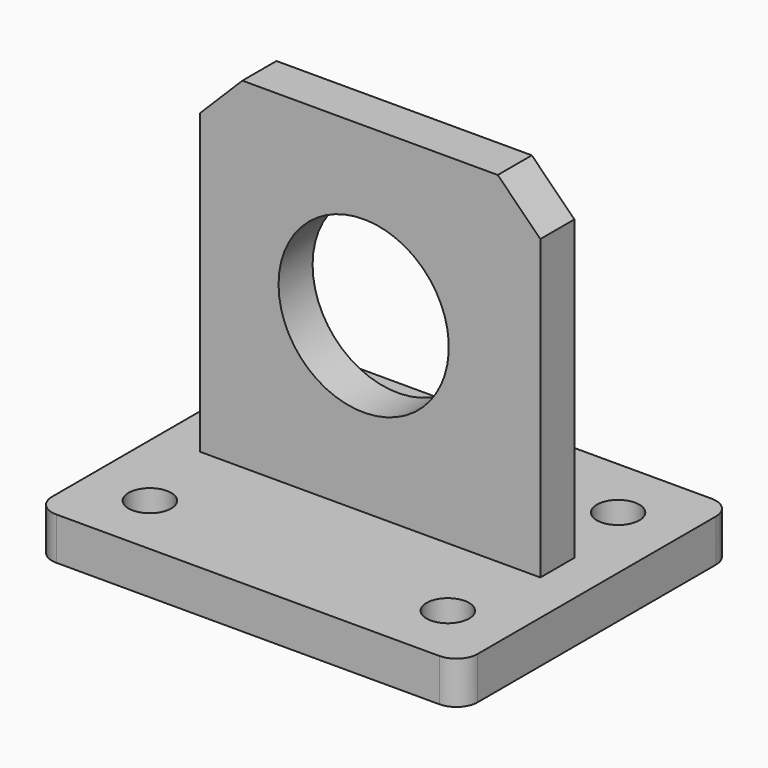
from build123d import *

# Parameters (mm, degrees)
F0_W     = 100
F0_H     = 80
F1_DEPTH = 10
F3_D     = 10
F4_R     = 5
F5_R     = 5
F6_W     = 80
F6_H     = 10
F7_DEPTH = 80
F8_SIZE  = 10
F10_D    = 40


with BuildPart() as f1:
    # F0 (on Top) → F1 (new body)
    with BuildSketch(Plane.XY):
        with Locations((13.55473, -5.91478)):
            Rectangle(F0_W, F0_H)
    extrude(amount=F1_DEPTH)

    # F3 (through all)
    with Locations(Plane.XY.offset(10)):
        with Locations((-21.44527, -30.91478), (-21.44527, 19.08522), (48.55473, 19.08522), (48.55473, -30.91478)):
            Hole(F3_D / 2)

    # F4
    f4_edges = [f1.edges().sort_by_distance(p)[0] for p in [
        (63.55473, 34.08522, 5),
    ]]
    fillet(f4_edges, radius=F4_R)

    # F5
    f5_edges = [f1.edges().sort_by_distance(p)[0] for p in [
        (63.55473, -45.91478, 5),
        (-36.44527, -45.91478, 5),
        (-36.44527, 34.08522, 5),
    ]]
    fillet(f5_edges, radius=F5_R)

    # F6 (on face) → F7 (join)
    with BuildSketch(Plane.XY.offset(10)):
        with Locations((13.55473, -5)):
            Rectangle(F6_W, F6_H)
        with Locations((13.55473, -5)):
            Rectangle(F6_W, F6_H)
    extrude(amount=F7_DEPTH)

    # F8
    f8_edges = [f1.edges().sort_by_distance(p)[0] for p in [
        (53.55473, -5, 90),
        (-26.44527, -5, 90),
    ]]
    chamfer(f8_edges, length=F8_SIZE)

    # F10 (through all)
    with Locations(Plane.XZ.offset(10)):
        with Locations((12.048366, 50.624441)):
            Hole(F10_D / 2)


solid = f1.part
